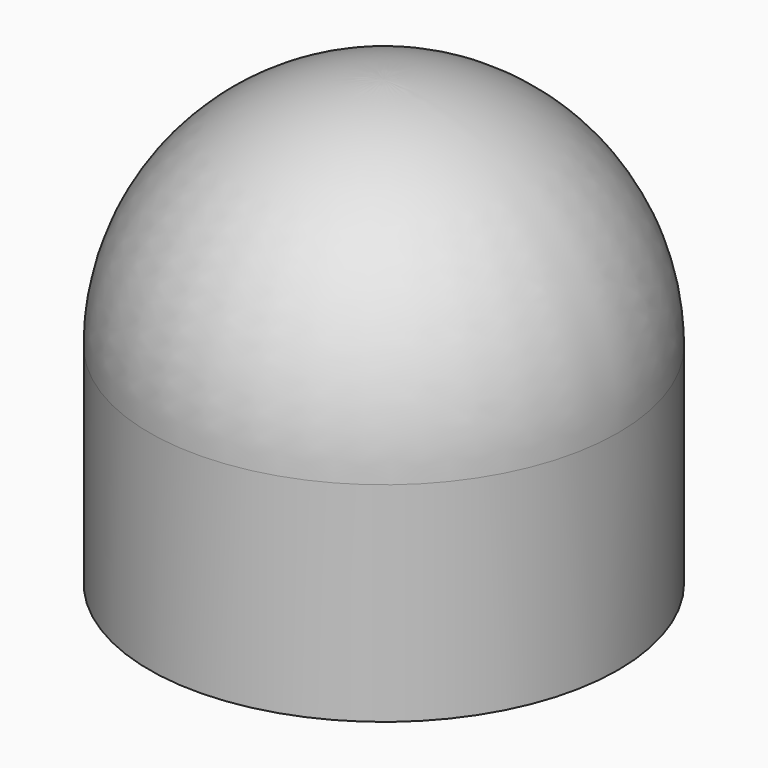
from build123d import *


with BuildPart() as part:
    # Sketch → Revolution (revolve)
    with BuildSketch(Plane.XZ):
        with BuildLine():
            Line((12.8, 13), (12.8, 0))
            Line((12.8, 0), (14.6, 0))
            Line((14.6, 0), (14.6, 13))
            ThreePointArc((14.6, 13), (10.32376, 23.323761), (0, 27.600004))
            Line((0, 27.600004), (0, 25.800004))
            ThreePointArc((12.8, 13), (9.050968, 22.050969), (0, 25.800004))
        make_face()
    revolve(axis=Axis((0, 0, 0), (0, 0, 1)))


solid = part.part
